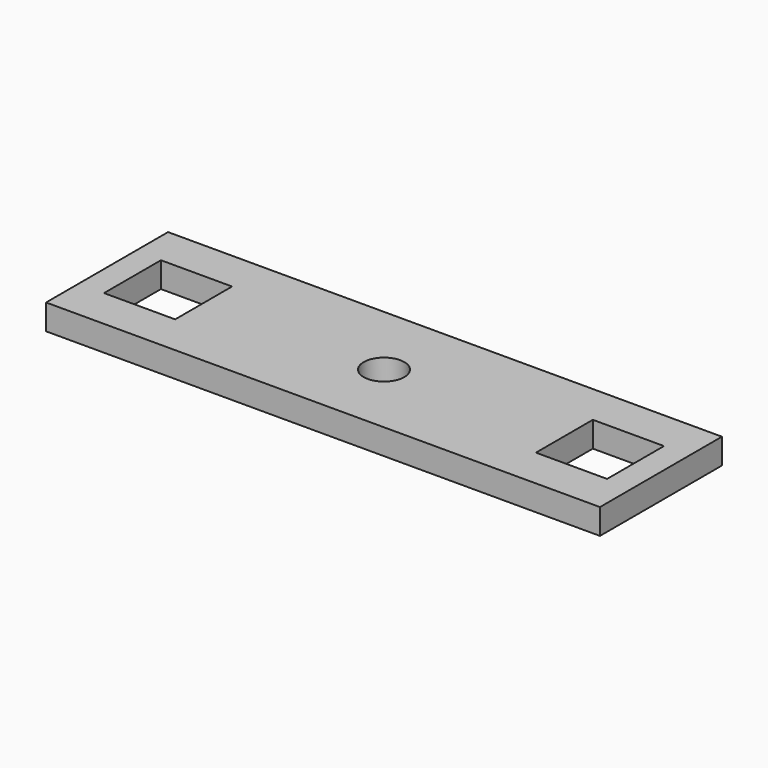
from build123d import *

# Parameters (mm, degrees)
F0_W     = 54.5
F0_H     = 15
F1_DEPTH = 2.5
F3_D     = 4
F4_W     = 7
F4_H     = 7
F5_DEPTH = 2.501


with BuildPart() as f1:
    # F0 (on Top) → F1 (new body)
    with BuildSketch(Plane.XY):
        Rectangle(F0_W, F0_H)
    extrude(amount=F1_DEPTH)

    # F3 (through all)
    with Locations(Plane.XY.offset(2.5)):
        with Locations((0, 0)):
            Hole(F3_D / 2)

    # F4 (on face) → F5 (cut, through all)
    with BuildSketch(Plane.XY.offset(2.5)):
        with Locations((-21.25, 0)):
            Rectangle(F4_W, F4_H)
        with Locations((21.25, 0)):
            Rectangle(F4_W, F4_H)
    extrude(amount=-F5_DEPTH, mode=Mode.SUBTRACT)


solid = f1.part
